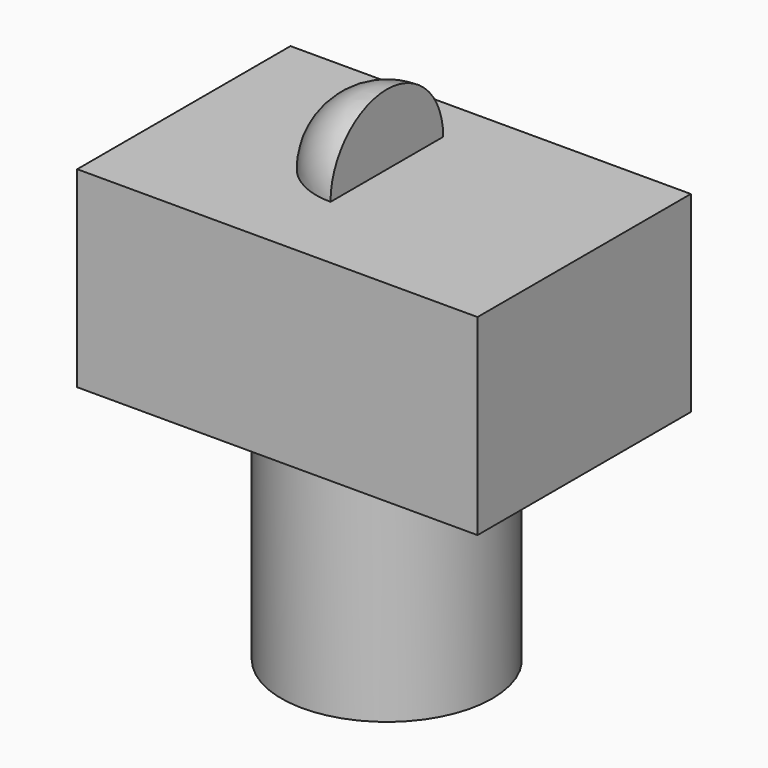
from build123d import *

# Parameters (mm, degrees)
F0_R          = 52.3474844596
F1_DEPTH      = 118.872
F2_W          = 198.6170932651
F2_H          = 132.2823390365
F3_DEPTH      = 95.25
F5_ANGLE_BACK = 90
F5_ANGLE      = 180


with BuildPart() as f1:
    # F0 (on Top) → F1 (new body)
    with BuildSketch(Plane.XY):
        Circle(F0_R)
    extrude(amount=F1_DEPTH)

    # F2 (on face) → F3 (join)
    with BuildSketch(Plane.XY.offset(118.872)):
        with Locations((5.5361129344, -8.6901672184)):
            Rectangle(F2_W, F2_H)
    extrude(amount=F3_DEPTH)

    # F4 (on face) → F5 (revolve)
    with BuildSketch(Plane.XY.offset(214.122), mode=Mode.PRIVATE) as f5_sk:
        with BuildLine():
            Line((0, -34.9537354881), (0, 34.9537354881))
            ThreePointArc((0, 34.9537354881), (-34.9537354881, 0), (0, -34.9537354881))
        make_face()
    revolve(f5_sk.sketch.rotate(Axis((0, 0, 214.122), (0, 1, 0)), -F5_ANGLE_BACK), axis=Axis((0, 0, 214.122), (0, 1, 0)), revolution_arc=F5_ANGLE)


solid = f1.part
